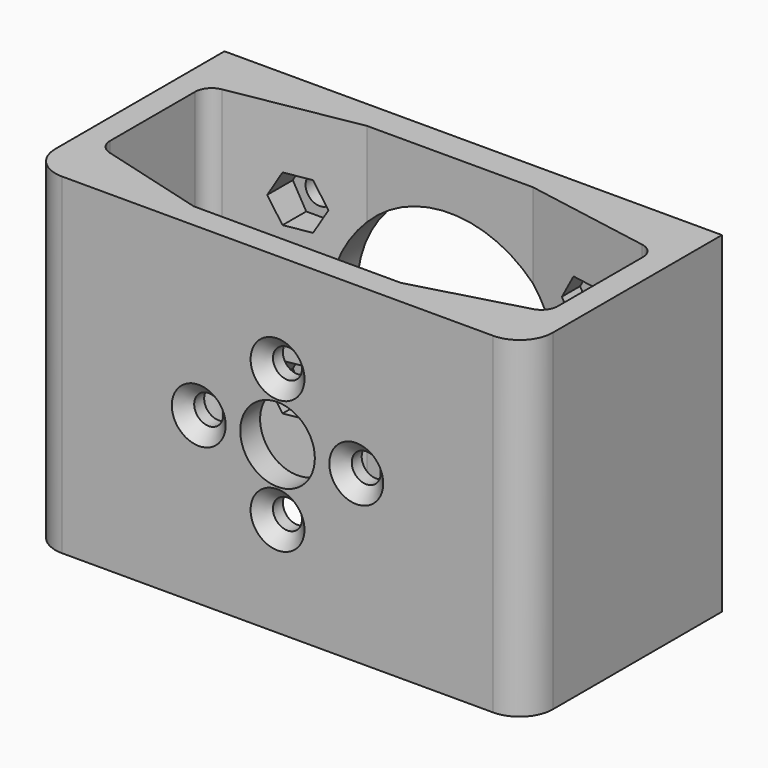
from build123d import *

# Parameters (mm, degrees)
SKETCH_W        = 60
SKETCH_H        = 29.5
PAD_DEPTH       = 20
SKETCH020_R     = 1.7
SKETCH020_R_2   = 14
POCKET_DEPTH    = 20
SKETCH001_R     = 1.75
SKETCH001_R_2   = 4.5
POCKET001_DEPTH = 5
SKETCH024_R     = 2.220567
PAD001_DEPTH    = 4
POCKET003_DEPTH = 6
SKETCH022_R     = 2
POCKET004_DEPTH = 3
SKETCH023_W     = 7
SKETCH023_H     = 4.2
POCKET005_DEPTH = 1.6
CHAMFER_SIZE    = 1
CHAMFER001_SIZE = 1
CHAMFER002_SIZE = 1.5
CHAMFER003_SIZE = 1.5
CHAMFER004_SIZE = 1.5
CHAMFER005_SIZE = 1.5
FILLET_R        = 4
FILLET001_R     = 4
FILLET002_R     = 2
FILLET003_R     = 2
FILLET004_R     = 2
FILLET005_R     = 2


with BuildPart() as part:
    # Sketch → Pad (new body, symmetric)
    with BuildSketch(Plane.XY):
        Rectangle(SKETCH_W, SKETCH_H)
        Polygon((-27, -7.75), (-12.5, -11.75), (12.5, -11.75), (27, -7.75), (27, 8.25), (10, 11.25), (-10, 11.25), (-27, 8.25), align=None, mode=Mode.SUBTRACT)
    extrude(amount=PAD_DEPTH, both=True)

    # Sketch020 → Pocket (cut)
    with BuildSketch(Plane(origin=(0, 14.75, 0), x_dir=(-1, 0, 0), z_dir=(0, 1, 0))):
        with Locations((-17.320508, 10)):
            Circle(SKETCH020_R)
        with Locations((-17.320508, -10)):
            Circle(SKETCH020_R)
        with Locations((17.320508, 10)):
            Circle(SKETCH020_R)
        with Locations((17.320508, -10)):
            Circle(SKETCH020_R)
        Circle(SKETCH020_R_2)
    extrude(amount=-POCKET_DEPTH, mode=Mode.SUBTRACT)

    # Sketch001 → Pocket001 (cut)
    with BuildSketch(Plane.XZ.offset(14.75)):
        with Locations((0, 8)):
            Circle(SKETCH001_R)
        with Locations((0, -8)):
            Circle(SKETCH001_R)
        with Locations((-9.5, 0)):
            Circle(SKETCH001_R)
        with Locations((9.5, 0)):
            Circle(SKETCH001_R)
        Circle(SKETCH001_R_2)
    extrude(amount=-POCKET001_DEPTH, mode=Mode.SUBTRACT)

    # Sketch024 → Pad001 (new body)
    with BuildSketch(Plane.XZ.offset(-11.25)):
        with Locations((-17.320508, 10)):
            Circle(SKETCH024_R)
    extrude(amount=PAD001_DEPTH)

    # Sketch021 → Pocket003 (cut)
    with BuildSketch(Plane.XZ.offset(-7.25)):
        Polygon((-18.937089, 12.8), (-20.55367, 10), (-18.937089, 7.2), (-15.703927, 7.2), (-14.087347, 10), (-15.703927, 12.8), align=None)
        Polygon((15.703927, 12.8), (14.087347, 10), (15.703927, 7.2), (18.937089, 7.2), (20.55367, 10), (18.937089, 12.8), align=None)
        Polygon((-18.937089, -7.2), (-20.55367, -10), (-18.937089, -12.8), (-15.703927, -12.8), (-14.087347, -10), (-15.703927, -7.2), align=None)
        Polygon((15.703927, -7.2), (14.087347, -10), (15.703927, -12.8), (18.937089, -12.8), (20.55367, -10), (18.937089, -7.2), align=None)
    extrude(amount=-POCKET003_DEPTH, mode=Mode.SUBTRACT)

    # Sketch022 → Pocket004 (cut)
    with BuildSketch(Plane(origin=(-30, 0, 0), x_dir=(0, -1, 0), z_dir=(-1, 0, 0))):
        with Locations((3, 3.13)):
            Circle(SKETCH022_R)
        with Locations((3, -3.13)):
            Circle(SKETCH022_R)
    extrude(amount=-POCKET004_DEPTH, mode=Mode.SUBTRACT)

    # Sketch023 → Pocket005 (cut)
    with BuildSketch(Plane.YZ.offset(-27)):
        with Locations((0.5, 3.13)):
            Rectangle(SKETCH023_W, SKETCH023_H)
        with Locations((0.5, -3.13)):
            Rectangle(SKETCH023_W, SKETCH023_H)
    extrude(amount=-POCKET005_DEPTH, mode=Mode.SUBTRACT)

    # Chamfer
    chamfer_edges = [part.edges().sort_by_distance(p)[0] for p in [
        (-30, -1, 3.13),
    ]]
    chamfer(chamfer_edges, length=CHAMFER_SIZE)

    # Chamfer001
    chamfer001_edges = [part.edges().sort_by_distance(p)[0] for p in [
        (-30, -1, -3.13),
    ]]
    chamfer(chamfer001_edges, length=CHAMFER001_SIZE)

    # Chamfer002
    chamfer002_edges = [part.edges().sort_by_distance(p)[0] for p in [
        (-1.75, -14.75, 8),
    ]]
    chamfer(chamfer002_edges, length=CHAMFER002_SIZE)

    # Chamfer003
    chamfer003_edges = [part.edges().sort_by_distance(p)[0] for p in [
        (-11.25, -14.75, 0),
    ]]
    chamfer(chamfer003_edges, length=CHAMFER003_SIZE)

    # Chamfer004
    chamfer004_edges = [part.edges().sort_by_distance(p)[0] for p in [
        (7.75, -14.75, 0),
    ]]
    chamfer(chamfer004_edges, length=CHAMFER004_SIZE)

    # Chamfer005
    chamfer005_edges = [part.edges().sort_by_distance(p)[0] for p in [
        (-1.75, -14.75, -8),
    ]]
    chamfer(chamfer005_edges, length=CHAMFER005_SIZE)

    # Fillet
    fillet_edges = [part.edges().sort_by_distance(p)[0] for p in [
        (-30, -14.75, 0),
    ]]
    fillet(fillet_edges, radius=FILLET_R)

    # Fillet001
    fillet001_edges = [part.edges().sort_by_distance(p)[0] for p in [
        (30, -14.75, 0),
    ]]
    fillet(fillet001_edges, radius=FILLET001_R)

    # Fillet002
    fillet002_edges = [part.edges().sort_by_distance(p)[0] for p in [
        (-27, 8.25, 0),
    ]]
    fillet(fillet002_edges, radius=FILLET002_R)

    # Fillet003
    fillet003_edges = [part.edges().sort_by_distance(p)[0] for p in [
        (27, 8.25, 0),
    ]]
    fillet(fillet003_edges, radius=FILLET003_R)

    # Fillet004
    fillet004_edges = [part.edges().sort_by_distance(p)[0] for p in [
        (-27, -7.75, 0),
    ]]
    fillet(fillet004_edges, radius=FILLET004_R)

    # Fillet005
    fillet005_edges = [part.edges().sort_by_distance(p)[0] for p in [
        (27, -7.75, 0),
    ]]
    fillet(fillet005_edges, radius=FILLET005_R)


solid = part.part
